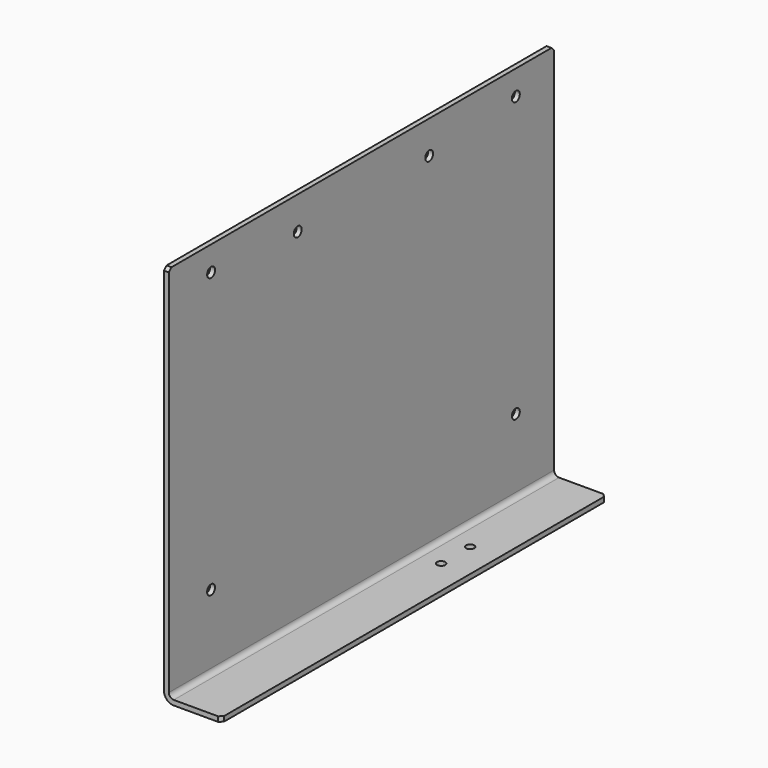
from build123d import *

# Parameters (mm, degrees)
F1_DEPTH = 293
F3_D     = 5
F5_D     = 6
F6_SIZE  = 2
F7_SIZE  = 2


with BuildPart() as f1:
    # F0 (on Front) → F1 (new body)
    with BuildSketch(Plane.XZ):
        with BuildLine():
            Line((122.288967, -156.216999), (122.288967, 70.783001))
            Line((122.288967, 70.783001), (119.288967, 70.783001))
            Line((119.288967, 70.783001), (119.288967, -156.216999))
            ThreePointArc((119.288967, -156.216999), (121.046326, -160.45964), (125.288967, -162.216999))
            Line((125.288967, -162.216999), (154.288967, -162.216999))
            Line((154.288967, -162.216999), (154.288967, -159.216999))
            Line((154.288967, -159.216999), (125.288967, -159.216999))
            ThreePointArc((125.288967, -159.216999), (123.167647, -158.338319), (122.288967, -156.216999))
        make_face()
    extrude(amount=-F1_DEPTH)

    # F3 (through all)
    with Locations(Plane.XY.offset(-159.216999)):
        with Locations((136.788967, 189), (136.788967, 211)):
            Hole(F3_D / 2)

    # F5 (through all)
    with Locations(Plane(origin=(119.288967, 0, 0), x_dir=(0, -1, 0), z_dir=(-1, 0, 0))):
        with Locations((-32.1, 55.783001), (-32.1, -114.216999), (-263.9, -114.216999), (-263.9, 55.783001), (-98, 50.783001), (-198, 50.783001)):
            Hole(F5_D / 2)

    # F6
    f6_edges = [f1.edges().sort_by_distance(p)[0] for p in [
        (120.788967, 0, 70.783001),
        (120.788967, 293, 70.783001),
        (154.288967, 293, -160.716999),
    ]]
    chamfer(f6_edges, length=F6_SIZE)

    # F7
    f7_edges = [f1.edges().sort_by_distance(p)[0] for p in [
        (154.288967, 0, -160.716999),
    ]]
    chamfer(f7_edges, length=F7_SIZE)


solid = f1.part
